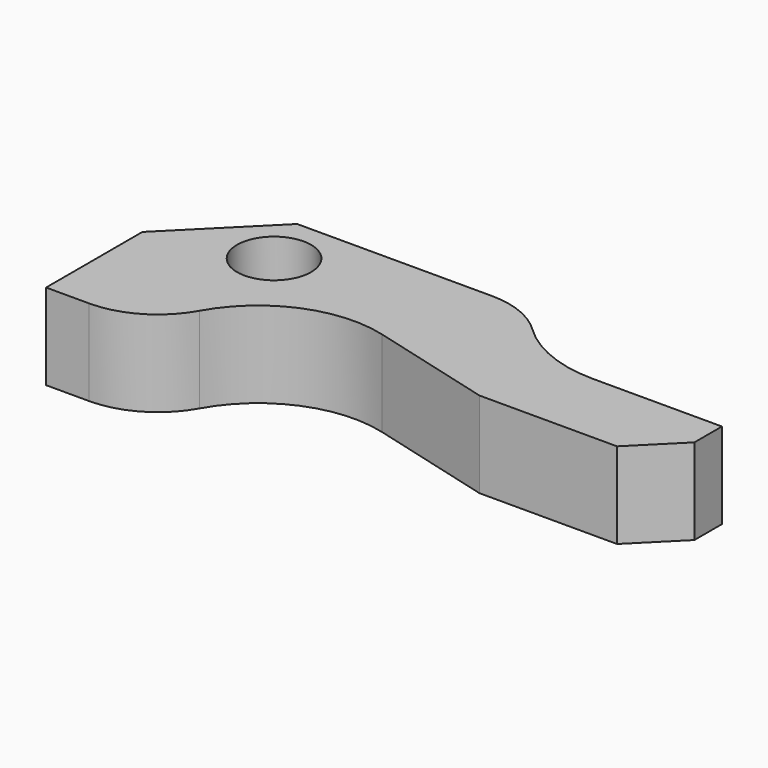
from build123d import *

# Parameters (mm, degrees)
F1_DEPTH = 10
F2_R     = 4.304073
F3_DEPTH = 25


with BuildPart() as f1:
    # F0 (on Top) → F1 (new body)
    with BuildSketch(Plane.XY):
        with BuildLine():
            Line((-29.598437, 2.141113), (-29.598437, -11.858887))
            Line((-29.598437, -11.858887), (-24.598437, -11.858887))
            ThreePointArc((-24.598437, -11.858887), (-19.528935, -10.478641), (-15.858866, -6.718918))
            ThreePointArc((-15.858866, -6.718918), (-9.084905, -0.632163), (0, 0))
            Line((0, 0), (14.401563, -3.858887))
            Line((14.401563, -3.858887), (30.401563, -3.858887))
            Line((30.401563, -3.858887), (35.401563, 1.141113))
            Line((35.401563, 1.141113), (35.401563, 5.141113))
            Line((35.401563, 5.141113), (20.401563, 5.141113))
            ThreePointArc((20.401563, 5.141113), (14.789077, 6.230685), (9.991952, 9.341113))
            ThreePointArc((9.991952, 9.341113), (6.793869, 11.414731), (3.052212, 12.141113))
            Line((3.052212, 12.141113), (-19.598437, 12.141113))
            Line((-19.598437, 12.141113), (-29.598437, 2.141113))
        make_face()
    extrude(amount=F1_DEPTH)

    # F2 (on face) → F3 (cut)
    with BuildSketch(Plane.XY.offset(10)):
        with Locations((-17.002411, 5.538352)):
            Circle(F2_R)
    extrude(amount=-F3_DEPTH, mode=Mode.SUBTRACT)


solid = f1.part
